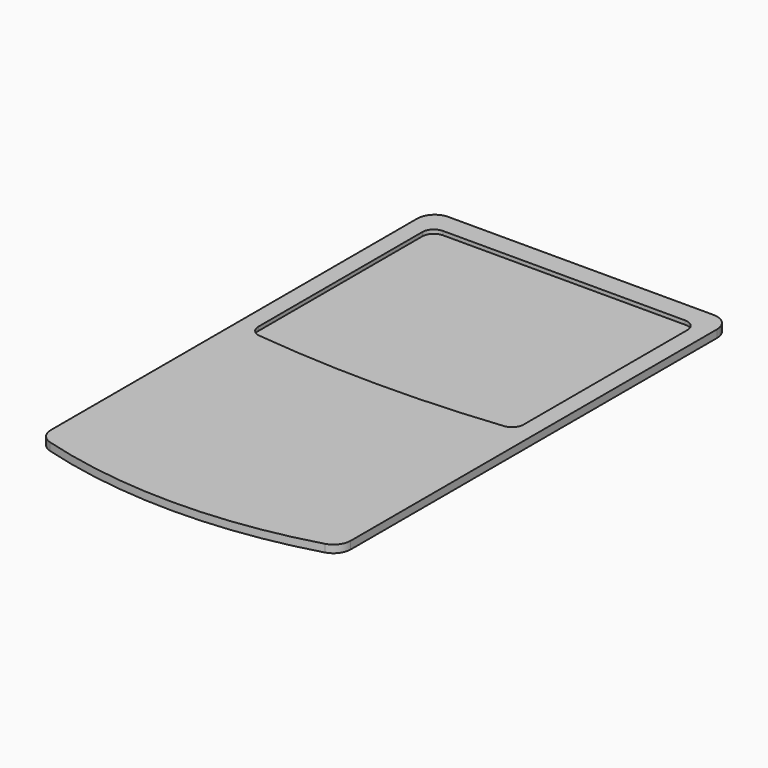
from build123d import *

# Parameters (mm, degrees)
PAD_DEPTH    = 2
POCKET_DEPTH = 1
FILLET_R     = 3
FILLET001_R  = 4.5


with BuildPart() as part:
    # Sketch → Pad (new body)
    with BuildSketch(Plane.XY):
        with BuildLine():
            ThreePointArc((0, 6), (39, 0), (78, 6))
            Line((78, 133), (78, 6))
            Line((0, 133), (78, 133))
            Line((0, 6), (0, 133))
        make_face()
    extrude(amount=PAD_DEPTH)

    # Sketch001 (on Face6 of Pad) → Pocket (cut)
    with BuildSketch(Plane.XY.offset(2)):
        with BuildLine():
            ThreePointArc((4.5, 68.5), (39, 66.5), (73.5, 68.5))
            Line((73.5, 127.5), (73.5, 68.5))
            Line((4.5, 127.5), (73.5, 127.5))
            Line((4.5, 68.5), (4.5, 127.5))
        make_face()
    extrude(amount=-POCKET_DEPTH, mode=Mode.SUBTRACT)

    # Fillet
    fillet_edges = [part.edges().sort_by_distance(p)[0] for p in [
        (73.5, 68.5, 1.5),
        (73.5, 127.5, 1.5),
        (4.5, 127.5, 1.5),
        (4.5, 68.5, 1.5),
    ]]
    fillet(fillet_edges, radius=FILLET_R)

    # Fillet001
    fillet001_edges = [part.edges().sort_by_distance(p)[0] for p in [
        (78, 6, 1),
        (78, 133, 1),
        (0, 6, 1),
        (0, 133, 1),
    ]]
    fillet(fillet001_edges, radius=FILLET001_R)


solid = part.part
